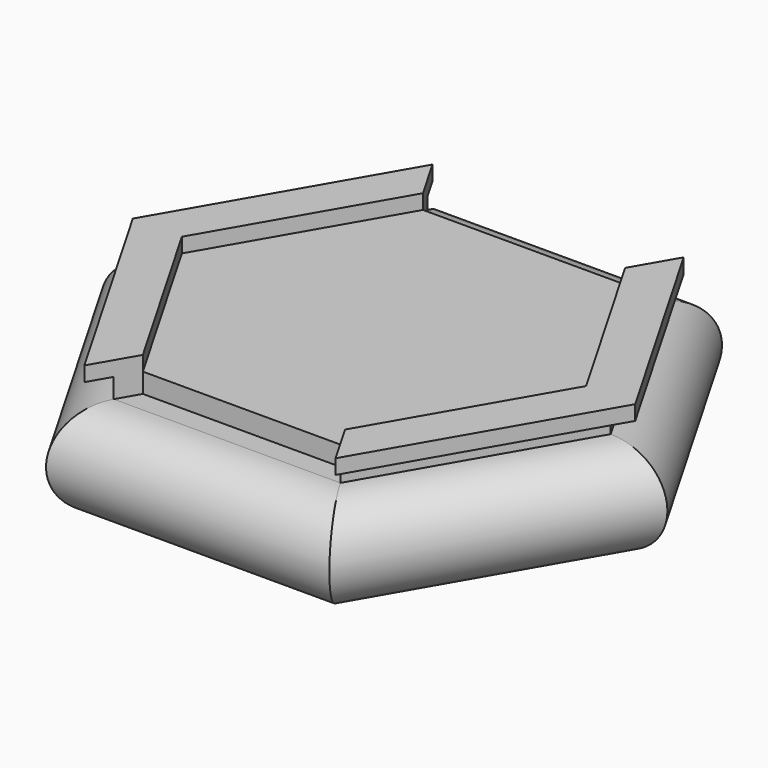
from build123d import *

# Parameters (mm, degrees)
F1_DEPTH  = 12.7
F3_DEPTH  = 25.4
F6_DEPTH  = 25.4
F9_DEPTH  = 25.4
F11_DEPTH = 1.778
F12_DEPTH = 1.016
F13_DEPTH = 1.016


with BuildPart() as f1:
    # F0 (on Front) → F1 (new body, symmetric)
    with BuildSketch(Plane.XZ):
        with BuildLine():
            Line((-12.7, 0), (0, 0))
            Line((0, 0), (12.7, 0))
            ThreePointArc((12.7, 0), (15.24, 2.54), (12.7, 5.08))
            Line((12.7, 5.08), (-12.7, 5.08))
            ThreePointArc((-12.7, 5.08), (-15.24, 2.54), (-12.7, 0))
        make_face()
    extrude(amount=F1_DEPTH, both=True)

    # F2 (on Right) → F3 (cut, symmetric)
    with BuildSketch(Plane.YZ):
        with BuildLine():
            ThreePointArc((10.16, 5.08), (12.7, 2.54), (10.16, 0))
            Line((10.16, 0), (29.21, 0))
            Line((29.21, 0), (29.21, 5.08))
            Line((29.21, 5.08), (10.16, 5.08))
        make_face()
        with BuildLine():
            ThreePointArc((-10.16, 0), (-12.7, 2.54), (-10.16, 5.08))
            Line((-10.16, 5.08), (-29.21, 5.08))
            Line((-29.21, 5.08), (-29.21, 0))
            Line((-29.21, 0), (-10.16, 0))
        make_face()
    extrude(amount=F3_DEPTH, both=True, mode=Mode.SUBTRACT)

    # F5 (on line) → F6 (cut, symmetric)
    with BuildSketch(Plane(origin=(0, 0, 0), x_dir=(-0.8660254038, -0.5, 0), z_dir=(-0.5, 0.8660254038, 0))):
        with BuildLine():
            ThreePointArc((10.16, 5.08), (12.7, 2.54), (10.16, 0))
            Line((10.16, 0), (29.21, 0))
            Line((29.21, 0), (29.21, 5.08))
            Line((29.21, 5.08), (10.16, 5.08))
        make_face()
        with BuildLine():
            ThreePointArc((-10.16, 0), (-12.7, 2.54), (-10.16, 5.08))
            Line((-10.16, 5.08), (-29.21, 5.08))
            Line((-29.21, 5.08), (-29.21, 0))
            Line((-29.21, 0), (-10.16, 0))
        make_face()
    extrude(amount=F6_DEPTH, both=True, mode=Mode.SUBTRACT)

    # F8 (on line) → F9 (cut, symmetric)
    with BuildSketch(Plane(origin=(0, 0, 0), x_dir=(-0.8660254038, 0.5, 0), z_dir=(0.5, 0.8660254038, 0))):
        with BuildLine():
            ThreePointArc((10.16, 5.08), (12.7, 2.54), (10.16, 0))
            Line((10.16, 0), (29.21, 0))
            Line((29.21, 0), (29.21, 5.08))
            Line((29.21, 5.08), (10.16, 5.08))
        make_face()
        with BuildLine():
            ThreePointArc((-10.16, 0), (-12.7, 2.54), (-10.16, 5.08))
            Line((-10.16, 5.08), (-29.21, 5.08))
            Line((-29.21, 5.08), (-29.21, 0))
            Line((-29.21, 0), (-10.16, 0))
        make_face()
    extrude(amount=F9_DEPTH, both=True, mode=Mode.SUBTRACT)

    # F10 (on face) → F11 (join)
    with BuildSketch(Plane.XY.offset(5.08)):
        Polygon((-5.230878735, 9.0601477372), (-5.865878735, 10.16), (-11.7317574699, 0), (-5.865878735, -10.16), (-5.230878735, -9.0601477372), (-10.4617574699, 0), align=None)
        Polygon((-11.7317574699, 0), (-5.865878735, 10.16), (-6.500878735, 11.2598522628), (-13.0017574699, 0), (-6.500878735, -11.2598522628), (-5.865878735, -10.16), align=None)
        Polygon((11.7317574699, 0), (5.865878735, 10.16), (5.230878735, 9.0601477372), (10.4617574699, 0), (5.230878735, -9.0601477372), (5.865878735, -10.16), align=None)
        Polygon((6.500878735, 11.2598522628), (5.865878735, 10.16), (11.7317574699, 0), (5.865878735, -10.16), (6.500878735, -11.2598522628), (13.0017574699, 0), align=None)
    extrude(amount=F11_DEPTH)

    # F10 (on face) → F12 (cut)
    with BuildSketch(Plane.XY.offset(5.08)):
        Polygon((6.500878735, 11.2598522628), (5.865878735, 10.16), (11.7317574699, 0), (5.865878735, -10.16), (6.500878735, -11.2598522628), (13.0017574699, 0), align=None)
        Polygon((-11.7317574699, 0), (-5.865878735, 10.16), (-6.500878735, 11.2598522628), (-13.0017574699, 0), (-6.500878735, -11.2598522628), (-5.865878735, -10.16), align=None)
    extrude(amount=F12_DEPTH, mode=Mode.SUBTRACT)

    # F10 (on face) → F13 (join)
    with BuildSketch(Plane.XY.offset(5.08)):
        Polygon((10.4617574699, 0), (5.230878735, 9.0601477372), (-5.230878735, 9.0601477372), (-10.4617574699, 0), (-5.230878735, -9.0601477372), (5.230878735, -9.0601477372), align=None)
    extrude(amount=F13_DEPTH)


solid = f1.part
